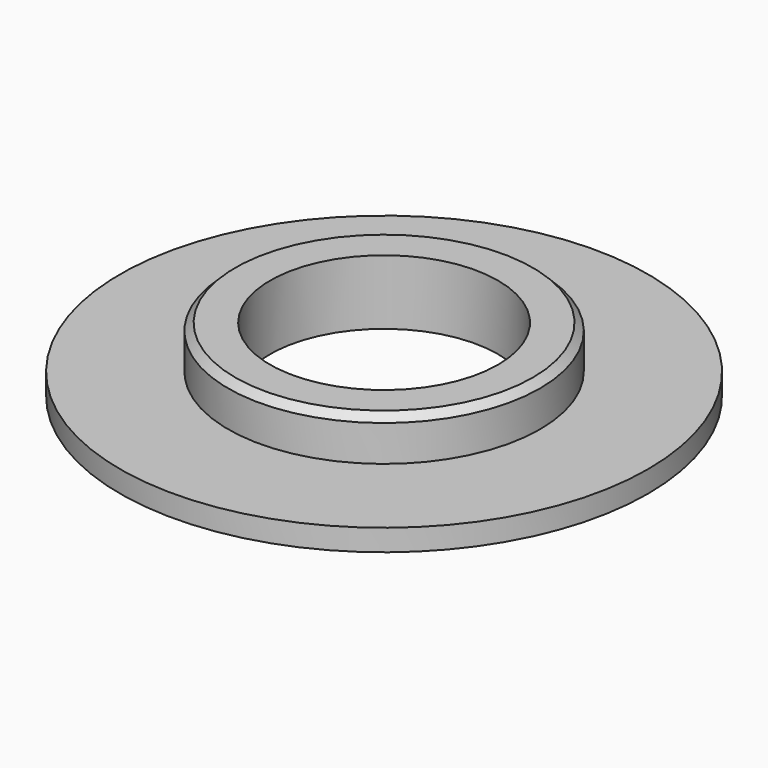
from build123d import *

# Parameters (mm, degrees)
SKETCH_R      = 11
SKETCH_R_2    = 4.75
PAD_DEPTH     = 0.9
SKETCH001_R   = 6.5
SKETCH001_R_2 = 4.75
PAD001_DEPTH  = 1.8
CHAMFER_SIZE  = 0.3


with BuildPart() as part:
    # Sketch → Pad (new body)
    with BuildSketch(Plane.XY):
        Circle(SKETCH_R)
        Circle(SKETCH_R_2, mode=Mode.SUBTRACT)
    extrude(amount=PAD_DEPTH)

    # Sketch001 (on Face4 of Pad) → Pad001 (join)
    with BuildSketch(Plane.XY.offset(0.9)):
        Circle(SKETCH001_R)
        Circle(SKETCH001_R_2, mode=Mode.SUBTRACT)
    extrude(amount=PAD001_DEPTH)

    # Chamfer
    chamfer_edges = [part.edges().sort_by_distance(p)[0] for p in [
        (-6.5, 0, 2.7),
    ]]
    chamfer(chamfer_edges, length=CHAMFER_SIZE)


solid = part.part
